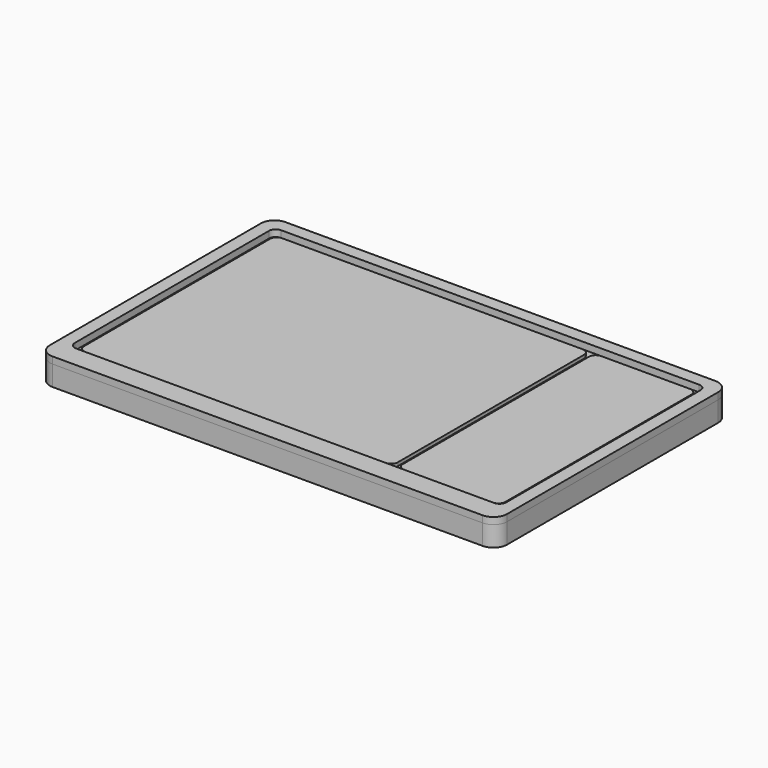
from build123d import *

# Parameters (mm, degrees)
F1_DEPTH = 8
F3_DEPTH = 7
F5_DEPTH = 6


with BuildPart() as f1:
    # F0 (on Top) → F1 (new body)
    with BuildSketch(Plane.XY):
        with BuildLine():
            Line((78.8, 42.8), (-48.8, 42.8))
            ThreePointArc((-48.8, 42.8), (-51.628427, 41.628427), (-52.8, 38.8))
            Line((-52.8, 38.8), (-52.8, -39.5))
            ThreePointArc((-52.8, -39.5), (-51.628427, -42.328427), (-48.8, -43.5))
            Line((-48.8, -43.5), (78.8, -43.5))
            ThreePointArc((78.8, -43.5), (81.628427, -42.328427), (82.8, -39.5))
            Line((82.8, -39.5), (82.8, 38.8))
            ThreePointArc((82.8, 38.8), (81.628427, 41.628427), (78.8, 42.8))
        make_face()
        with BuildLine():
            Line((-47, 39), (77, 39))
            ThreePointArc((77, 39), (78.414214, 38.414214), (79, 37))
            Line((79, 37), (79, -35))
            ThreePointArc((79, -35), (78.414214, -36.414214), (77, -37))
            Line((77, -37), (-47, -37))
            ThreePointArc((-47, -37), (-48.414214, -36.414214), (-49, -35))
            Line((-49, -35), (-49, 37))
            ThreePointArc((-49, 37), (-48.414214, 38.414214), (-47, 39))
        make_face(mode=Mode.SUBTRACT)
    extrude(amount=F1_DEPTH)


with BuildPart() as f3:
    # F2 (on Top) → F3 (new body)
    with BuildSketch(Plane.XY):
        with BuildLine():
            ThreePointArc((45.626484, 35.5), (45.040697, 36.914214), (43.626484, 37.5))
            Line((43.626484, 37.5), (-45.5, 37.5))
            ThreePointArc((-45.5, 37.5), (-46.914214, 36.914214), (-47.5, 35.5))
            Line((-47.5, 35.5), (-47.5, -33.5))
            ThreePointArc((-47.5, -33.5), (-46.914214, -34.914214), (-45.5, -35.5))
            Line((-45.5, -35.5), (43.626484, -35.5))
            ThreePointArc((43.626484, -35.5), (45.040697, -34.914214), (45.626484, -33.5))
            Line((45.626484, -33.5), (45.626484, 35.5))
        make_face()
        with BuildLine():
            Line((75.5, 37.5), (49.126484, 37.5))
            ThreePointArc((49.126484, 37.5), (47.71227, 36.914214), (47.126484, 35.5))
            Line((47.126484, 35.5), (47.126484, -33.5))
            ThreePointArc((47.126484, -33.5), (47.71227, -34.914214), (49.126484, -35.5))
            Line((49.126484, -35.5), (75.5, -35.5))
            ThreePointArc((75.5, -35.5), (76.914214, -34.914214), (77.5, -33.5))
            Line((77.5, -33.5), (77.5, 35.5))
            ThreePointArc((77.5, 35.5), (76.914214, 36.914214), (75.5, 37.5))
        make_face()
    extrude(amount=F3_DEPTH)


with BuildPart() as f5:
    # F4 (on Top) → F5 (new body)
    with BuildSketch(Plane.XY):
        with BuildLine():
            Line((78.8, 42.8), (-48.8, 42.8))
            ThreePointArc((-48.8, 42.8), (-51.628427, 41.628427), (-52.8, 38.8))
            Line((-52.8, 38.8), (-52.8, -39.5))
            ThreePointArc((-52.8, -39.5), (-51.628427, -42.328427), (-48.8, -43.5))
            Line((-48.8, -43.5), (78.8, -43.5))
            ThreePointArc((78.8, -43.5), (81.628427, -42.328427), (82.8, -39.5))
            Line((82.8, -39.5), (82.8, 38.8))
            ThreePointArc((82.8, 38.8), (81.628427, 41.628427), (78.8, 42.8))
        make_face()
    extrude(amount=F5_DEPTH)


solid = Compound([f1.part, f3.part, f5.part])
